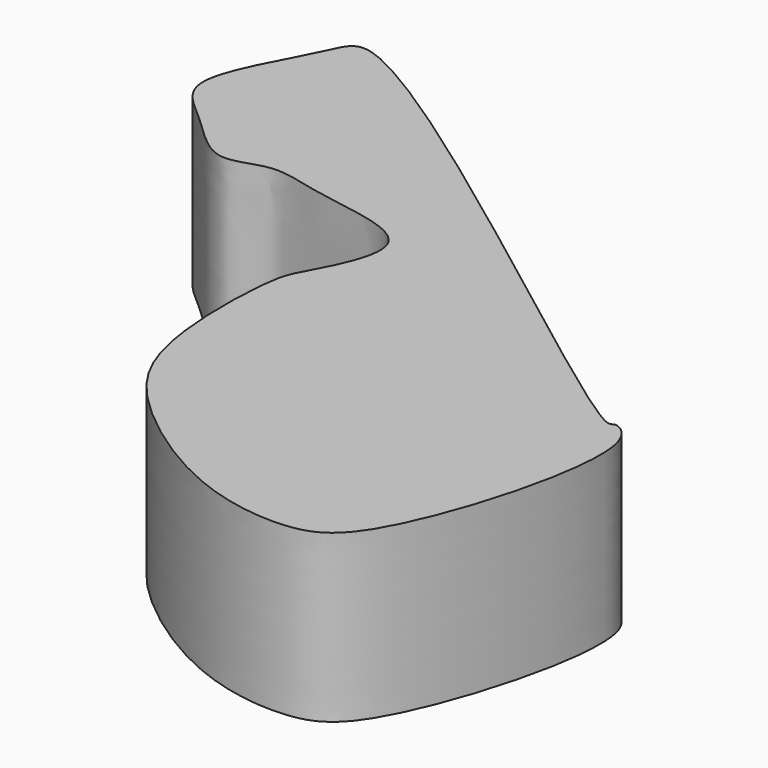
from build123d import *

# Parameters (mm, degrees)
F1_DEPTH = 25.4


with BuildPart() as f1:
    # F0 (on Top) → F1 (new body)
    with BuildSketch(Plane.XY):
        with BuildLine():
            add(Edge.make_bspline(
                [(-45.9282919765, 48.4798662364), (-32.4544507688, 44.3434872669), (35.563662864, -11.7166406334), (36.2883384015, -7.8170344207), (43.6877091721, -11.7767417419), (33.0519738827, -49.5872958577), (22.6139385499, -54.2272673409), (7.1596715664, -52.030496455), (-10.2380488101, -40.2365638518), (-19.7138418145, -27.5441594464), (-19.1435887456, -4.3910413466), (-17.1436288348, -0.7122559938), (-9.0964534163, 14.3015206896), (-28.5918973873, 15.6421749381), (-36.6088412779, 18.9495261198), (-44.0755160077, 14.3648451054), (-51.3507767993, 22.8847668216), (-60.5178480556, 28.980495924), (-50.2437585354, 44.6485244684), (-49.2424628731, 49.4972944952), (-45.9282919765, 48.4798662364)],
                knots=[0, 0, 0, 0, 0.1484004732, 0.1627456444, 0.1943558508, 0.2843284833, 0.3328135645, 0.3893052097, 0.4568054969, 0.5168579645, 0.5850042723, 0.6190922141, 0.6699266603, 0.7273116202, 0.7725171585, 0.8109889694, 0.8581022683, 0.9030230312, 0.9634978235, 1, 1, 1, 1], degree=3))
        make_face()
    extrude(amount=F1_DEPTH)


solid = f1.part
